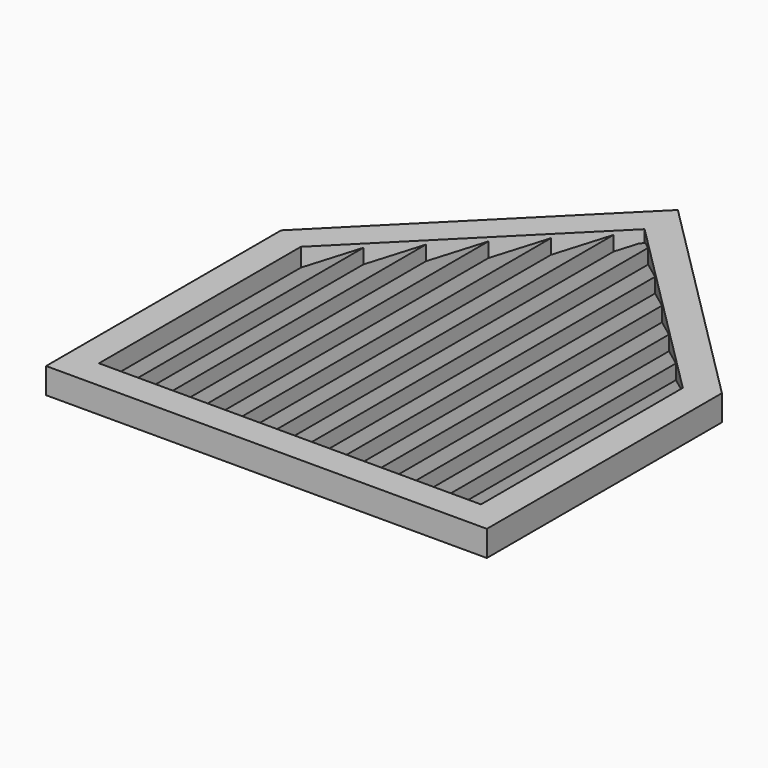
from build123d import *

# Parameters (mm, degrees)
F1_DEPTH = 3.5
F3_DEPTH = 59.89472
F4_W     = 42.426407
F4_H     = 3.5
F5_DEPTH = 25.9868
F6_W     = 42.426407
F6_H     = 3.5
F7_DEPTH = 37.73951


with BuildPart() as f1:
    # F0 (on Top) → F1 (new body)
    with BuildSketch(Plane.XY):
        Polygon((-30, 0), (0, 0), (30, 0), (30, 40), (0, 70), (-30, 40), align=None)
        Polygon((26, 4), (-26, 4), (-26, 38.343146), (-12.171573, 52.171573), (0, 64.343146), (26, 38.343146), align=None, mode=Mode.SUBTRACT)
    extrude(amount=F1_DEPTH)

    # F2 (on face) → F3 (join)
    with BuildSketch(Plane(origin=(0, 4, 0), x_dir=(-1, 0, 0), z_dir=(0, 1, 0))):
        Polygon((26, 0), (26, 1), (21.27, 3), (21.27, 1), (16.54, 3), (16.54, 1), (11.81, 3), (11.81, 1), (7.08, 3), (7.08, 1), (2.35, 3), (2.35, 1), (-2.38, 3), (-2.38, 1), (-7.11, 3), (-7.11, 1), (-11.84, 3), (-11.84, 1), (-16.57, 3), (-16.57, 1), (-21.3, 3), (-21.3, 1), (-26, 3), (-26, 0), align=None)
    extrude(amount=F3_DEPTH)

    # F4 (on face) → F5 (cut)
    with BuildSketch(Plane(origin=(35, 35, 0), x_dir=(-0.707107, 0.707107, 0), z_dir=(0.707107, 0.707107, 0))):
        with Locations((28.284271, 1.75)):
            Rectangle(F4_W, F4_H)
    extrude(amount=F5_DEPTH, mode=Mode.SUBTRACT)

    # F6 (on face) → F7 (cut)
    with BuildSketch(Plane(origin=(-35, 35, 0), x_dir=(-0.707107, -0.707107, 0), z_dir=(-0.707107, 0.707107, 0))):
        with Locations((-28.284271, 1.75)):
            Rectangle(F6_W, F6_H)
    extrude(amount=F7_DEPTH, mode=Mode.SUBTRACT)


solid = f1.part
